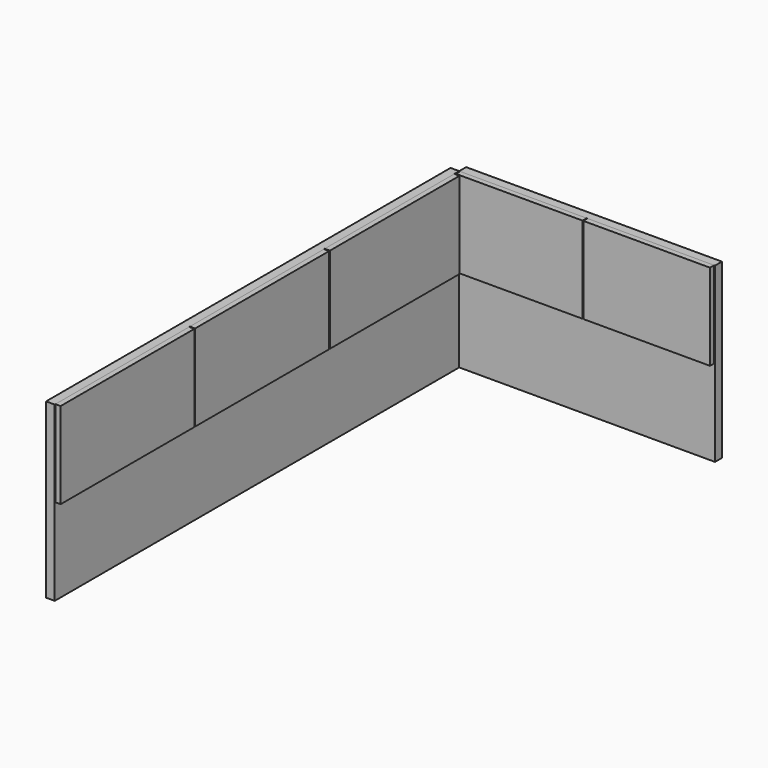
from build123d import *

# Parameters (mm, degrees)
F0_W     = 296
F0_H     = 10
F0_W_2   = 10
F0_H_2   = 585
F1_DEPTH = 200
F3_W     = 6
F3_H     = 187.5
F3_H_2   = 194
F3_H_3   = 193.5
F2_W     = 146.5
F2_H     = 6
F4_DEPTH = 100


with BuildPart() as f1:
    # F0 (on Top) → F1 (new body)
    with BuildSketch(Plane.XY):
        with Locations((93.318945, 280.145143)):
            Rectangle(F0_W, F0_H)
        with Locations((-59.681055, -17.354857)):
            Rectangle(F0_W_2, F0_H_2)
    extrude(amount=F1_DEPTH)


with BuildPart() as f4:
    # F3 (on face) + F2 (on face) → F4 (new body)
    with BuildSketch(Plane.XY.offset(200)):
        with Locations((-51.681055, 174.395143)):
            Rectangle(F3_W, F3_H)
        with Locations((-51.681055, -17.354857)):
            Rectangle(F3_W, F3_H_2)
        with Locations((-51.681055, -212.104857)):
            Rectangle(F3_W, F3_H_3)
    with BuildSketch(Plane.XY.offset(200)):
        with Locations((19.568945, 272.145143)):
            Rectangle(F2_W, F2_H)
        with Locations((167.068945, 272.145143)):
            Rectangle(F2_W, F2_H)
    extrude(amount=-F4_DEPTH)


solid = Compound([f1.part, f4.part])
